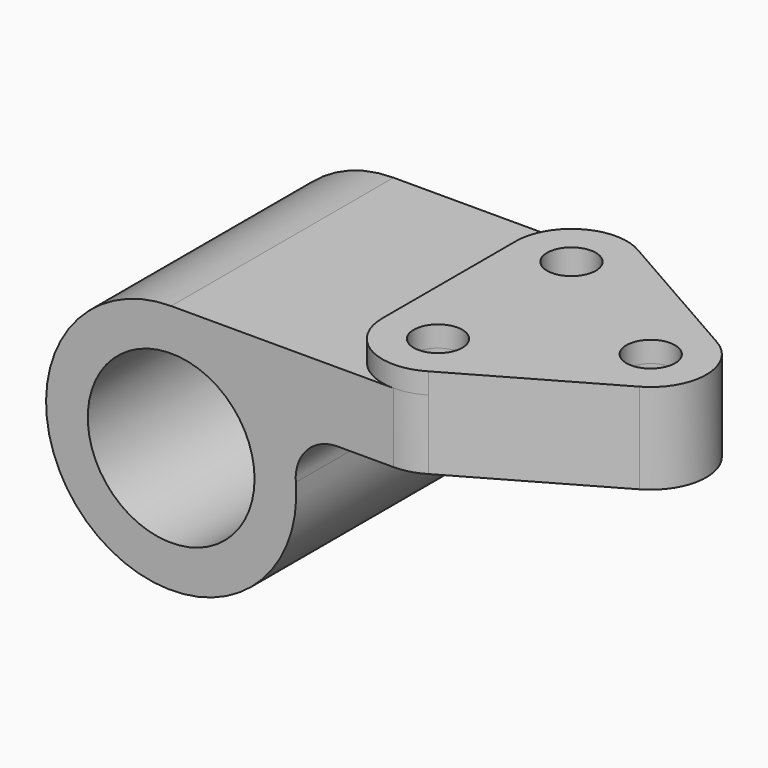
from build123d import *

# Parameters (mm, degrees)
F0_R     = 19.05
F1_DEPTH = 63.5
F2_R     = 5.5626
F3_DEPTH = 4.7752
F6_DEPTH = 15.875
F7_R     = 5.5626
F8_DEPTH = 57.151


with BuildPart() as f1:
    # F0 (on Front) → F1 (new body)
    with BuildSketch(Plane.XZ):
        with BuildLine():
            Line((37.967478, 12.7), (50.8, 12.7))
            Line((50.8, 12.7), (50.8, 28.575))
            Line((50.8, 28.575), (0, 28.575))
            ThreePointArc((0, 28.575), (-19.345366, -21.030631), (28.475608, 2.38125))
            ThreePointArc((28.475608, 2.38125), (30.957268, 9.623455), (37.967478, 12.7))
        make_face()
        Circle(F0_R, mode=Mode.SUBTRACT)
    extrude(amount=F1_DEPTH)

    # F2 (on face) → F3 (join)
    with BuildSketch(Plane.XY.offset(28.575)):
        with BuildLine():
            ThreePointArc((57.36329, -1.827409), (44.557556, -1.640077), (38.1, -12.7))
            Line((38.1, -12.7), (38.1, -50.8))
            ThreePointArc((38.1, -50.8), (44.557556, -61.859923), (57.36329, -61.672591))
            Line((57.36329, -61.672591), (90.448286, -42.778332))
            ThreePointArc((90.448286, -42.778332), (96.8502, -31.75), (90.448286, -20.721668))
            Line((90.448286, -20.721668), (57.36329, -1.827409))
        make_face()
        with Locations((50.8, -50.8)):
            Circle(F2_R, mode=Mode.SUBTRACT)
        with Locations((50.8, -12.7)):
            Circle(F2_R, mode=Mode.SUBTRACT)
        with Locations((84.1502, -31.75)):
            Circle(F2_R, mode=Mode.SUBTRACT)
    extrude(amount=F3_DEPTH)

    # F5 (on face) + F4 (on face) → F6 (join)
    with BuildSketch(Plane(origin=(0, 0, 28.575), x_dir=(1, 0, 0), z_dir=(0, 0, -1))):
        with BuildLine():
            Line((90.448286, 42.778332), (57.36329, 61.672591))
            ThreePointArc((57.36329, 61.672591), (54.206472, 63.034621), (50.8, 63.5))
            Line((50.8, 63.5), (50.8, 56.3626))
            ThreePointArc((50.8, 56.3626), (56.3626, 50.8), (50.8, 45.2374))
            Line((50.8, 45.2374), (50.8, 18.2626))
            ThreePointArc((50.8, 18.2626), (56.3626, 12.7), (50.8, 7.1374))
            Line((50.8, 7.1374), (50.8, 0))
            ThreePointArc((50.8, 0), (54.206472, 0.465379), (57.36329, 1.827409))
            Line((57.36329, 1.827409), (90.448286, 20.721668))
            ThreePointArc((90.448286, 20.721668), (96.8502, 31.75), (90.448286, 42.778332))
        make_face()
    with BuildSketch(Plane(origin=(0, 0, 28.575), x_dir=(1, 0, 0), z_dir=(0, 0, -1))):
        with BuildLine():
            Line((90.448286, 42.778332), (57.36329, 61.672591))
            ThreePointArc((57.36329, 61.672591), (54.206472, 63.034621), (50.8, 63.5))
            Line((50.8, 63.5), (50.8, 56.3626))
            ThreePointArc((50.8, 56.3626), (56.3626, 50.8), (50.8, 45.2374))
            Line((50.8, 45.2374), (50.8, 18.2626))
            ThreePointArc((50.8, 18.2626), (56.3626, 12.7), (50.8, 7.1374))
            Line((50.8, 7.1374), (50.8, 0))
            ThreePointArc((50.8, 0), (54.206472, 0.465379), (57.36329, 1.827409))
            Line((57.36329, 1.827409), (90.448286, 20.721668))
            ThreePointArc((90.448286, 20.721668), (96.8502, 31.75), (90.448286, 42.778332))
        make_face()
    extrude(amount=F6_DEPTH)

    # F7 (on face) → F8 (cut, through all)
    with BuildSketch(Plane.XY.offset(28.575)):
        with Locations((50.8, -50.8)):
            Circle(F7_R)
        with Locations((50.8, -12.7)):
            Circle(F7_R)
        with Locations((84.1502, -31.75)):
            Circle(F7_R)
    extrude(amount=-F8_DEPTH, mode=Mode.SUBTRACT)


solid = f1.part
